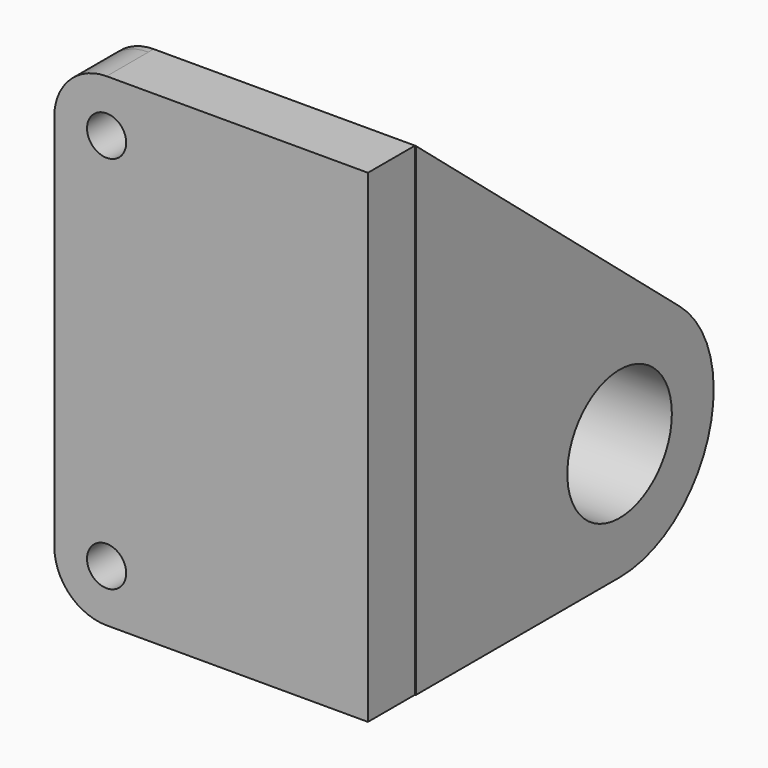
from build123d import *

# Parameters (mm, degrees)
F0_R      = 76.2
F1_DEPTH  = 203.2
F1_FACE_R = 76.2
F2_DEPTH  = 25.4
F5_DEPTH  = 609.6
F6_R      = 254
F7_DEPTH  = 1488.44


with BuildPart() as f1:
    # F0 (on Front) → F1 (new body)
    with BuildSketch(Plane.XZ):
        with BuildLine():
            Line((606.582717, -823.478018), (606.582717, 1056.121982))
            Line((606.582717, 1056.121982), (-409.417283, 1056.121982))
            ThreePointArc((-409.417283, 1056.121982), (-553.101381, 996.60608), (-612.617283, 852.921982))
            Line((-612.617283, 852.921982), (-612.617283, -620.278018))
            ThreePointArc((-612.617283, -620.278018), (-553.101381, -763.962116), (-409.417283, -823.478018))
            Line((-409.417283, -823.478018), (606.582717, -823.478018))
        make_face()
        with Locations((-409.417283, -620.278018)):
            Circle(F0_R, mode=Mode.SUBTRACT)
        with Locations((-409.417283, 852.921982)):
            Circle(F0_R, mode=Mode.SUBTRACT)
    extrude(amount=F1_DEPTH)

    # F1_face (on face) → F2 (join)
    with BuildSketch(Plane(origin=(8.078428, 0, 116.321982), x_dir=(1, 0, 0), z_dir=(0, 1, 0))):
        with BuildLine():
            Line((598.504289, -939.8), (598.504289, 939.8))
            Line((598.504289, 939.8), (-417.495711, 939.8))
            ThreePointArc((-417.495711, 939.8), (-561.179808, 880.284098), (-620.695711, 736.6))
            Line((-620.695711, 736.6), (-620.695711, -736.6))
            ThreePointArc((-620.695711, -736.6), (-561.179808, -880.284098), (-417.495711, -939.8))
            Line((-417.495711, -939.8), (598.504289, -939.8))
        make_face()
        with Locations((-417.495711, 736.6)):
            Circle(F1_FACE_R, mode=Mode.SUBTRACT)
        with Locations((-417.495711, -736.6)):
            Circle(F1_FACE_R, mode=Mode.SUBTRACT)
    extrude(amount=F2_DEPTH)

    # F4 (on Right) → F5 (join)
    with BuildSketch(Plane.YZ):
        with BuildLine():
            Line((25.4, -823.478018), (1016, -823.478018))
            ThreePointArc((1016, -823.478018), (1445.829228, -522.094174), (1308.976107, -15.283943))
            Line((1308.976107, -15.283943), (25.4, 1056.121982))
            Line((25.4, 1056.121982), (25.4, -823.478018))
        make_face()
    extrude(amount=F5_DEPTH)

    # F6 (on face) → F7 (cut)
    with BuildSketch(Plane.YZ):
        with Locations((1016, -366.278018)):
            Circle(F6_R)
    extrude(amount=F7_DEPTH, mode=Mode.SUBTRACT)


solid = f1.part
